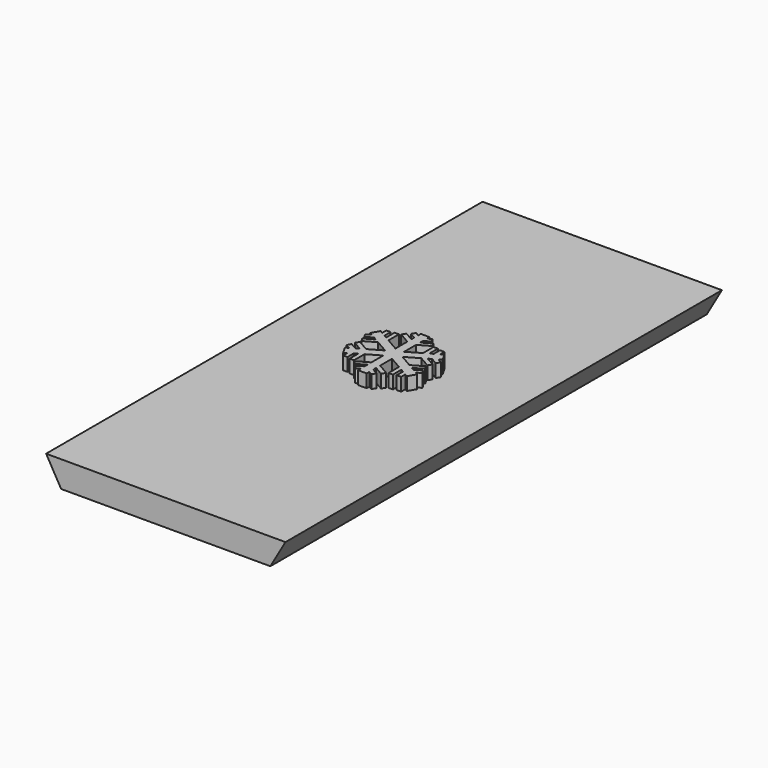
from build123d import *

# Parameters (mm, degrees)
F1_DEPTH  = 125
F2_R      = 1.85
F3_DEPTH  = 4
F5_DEPTH  = 3
F7_R      = 6
F8_DEPTH  = 25
F10_R     = 6
F11_DEPTH = 25


with BuildPart() as f1:
    # F0 (on Front) → F1 (new body)
    with BuildSketch(Plane.XZ):
        Polygon((27.4241377865, 47.5), (-27.4241377865, 47.5), (-23.9600361714, 41.5), (23.9600361714, 41.5), align=None)
    extrude(amount=F1_DEPTH)

    # F2 (on face) → F3 (cut)
    with BuildSketch(Plane(origin=(0, 0, 41.5), x_dir=(1, 0, 0), z_dir=(0, 0, -1))):
        with BuildLine():
            ThreePointArc((-13.8300180857, 120), (-11.9800180857, 118.15), (-10.1300180857, 120))
            Line((-10.1300180857, 120), (-13.8300180857, 120))
        make_face()
        with BuildLine():
            Line((-13.8300180857, 120), (-10.1300180857, 120))
            ThreePointArc((-10.1300180857, 120), (-11.9800180857, 121.85), (-13.8300180857, 120))
        make_face()
        with Locations((11.9800180857, 120)):
            Circle(F2_R)
        with BuildLine():
            ThreePointArc((-13.8300180857, 23), (-11.9800180857, 21.15), (-10.1300180857, 23))
            Line((-10.1300180857, 23), (-13.8300180857, 23))
        make_face()
        with BuildLine():
            Line((-13.8300180857, 23), (-10.1300180857, 23))
            ThreePointArc((-10.1300180857, 23), (-11.9800180857, 24.85), (-13.8300180857, 23))
        make_face()
        with Locations((11.9800180857, 23)):
            Circle(F2_R)
    extrude(amount=-F3_DEPTH, mode=Mode.SUBTRACT)

    # F4 (on face) → F5 (join)
    with BuildSketch(Plane.XY.offset(47.5)):
        Polygon((0.5340071506, -61.535328541), (-0.4659928494, -62.1126788102), (-0.4659928494, -65.5259274643), (-0.4659928494, -66.6806280026), (-0.4659928494, -67.4806280026), (-0.4659928494, -68.635328541), (-0.4659928494, -69.3806280026), (1.5340071506, -69.3806280026), (1.5340071506, -68.635328541), (1.5340071506, -67.4806280026), (1.5340071506, -66.6806280026), (1.5340071506, -65.5259274643), (1.5340071506, -62.1126788102), align=None)
        Polygon((2.900031855, -68.2693027335), (1.5340071506, -67.4806280026), (1.5340071506, -68.635328541), (2.4000325544, -69.135328541), align=None)
        Polygon((4.132083362, -67.0259274643), (1.5340071506, -65.5259274643), (1.5340071506, -66.6806280026), (3.6320840614, -67.8919532719), align=None)
        Polygon((-0.4659928494, -68.635328541), (-0.4659928494, -67.4806280026), (-1.8520648707, -68.2808770573), (-1.3320182531, -69.135328541), align=None)
        Polygon((-0.4659928494, -66.6806280026), (-0.4659928494, -65.5259274643), (-3.0640690607, -67.0259274643), (-2.5440224431, -67.880378948), align=None)
        Polygon((-3.4219535926, -66.819303541), (-3.4219535926, -63.819303541), (-4.4219535926, -64.3966538102), (-4.4219535926, -66.819303541), align=None)
        Polygon((-5.1147739156, -66.5781745553), (-5.1147739156, -64.7966538102), (-6.1147739156, -65.3740040794), (-6.1147739156, -66.5781745553), align=None)
        Polygon((-7.1147739156, -63.6419532718), (-6.1147739156, -63.0646030026), (-7.6576161382, -62.1738426302), (-8.1576161382, -63.039868034), align=None)
        Polygon((-5.4219535926, -62.6646030026), (-4.4219535926, -62.0872527334), (-7.0200298039, -60.5872527335), (-7.5200298039, -61.4532781373), align=None)
        Polygon((-4.4219535925, -58.6740032718), (-5.4219535925, -58.0966530026), (-7.5200298039, -59.307977868), (-7.0200298039, -60.1740032718), align=None)
        Polygon((-8.1576161382, -57.7213879713), (-7.6576161382, -58.5874133751), (-6.1147739156, -57.6966530026), (-7.1147739156, -57.1193027334), align=None)
        Polygon((-6.1147739156, -54.18308145), (-6.1147739156, -55.3872519259), (-5.1147739156, -55.964602195), (-5.1147739156, -54.18308145), align=None)
        Polygon((-4.4219535926, -53.9419524643), (-4.4219535926, -56.3646021951), (-3.4219535925, -56.9419524642), (-3.4219535926, -53.9419524643), align=None)
        Polygon((-3.0640690607, -53.735328541), (-0.4659928494, -55.235328541), (-0.4659928494, -54.0806280026), (-2.5440224431, -52.8808770573), align=None)
        Polygon((-1.8520648707, -52.480378948), (-0.4659928494, -53.2806280026), (-0.4659928494, -52.1259274643), (-1.3320182531, -51.6259274643), align=None)
        Polygon((1.5340071506, -52.1259274643), (1.5340071506, -53.2806280026), (2.900031855, -52.4919532718), (2.4000325544, -51.6259274643), align=None)
        Polygon((1.5340071506, -54.0806280026), (1.5340071506, -55.235328541), (4.132083362, -53.735328541), (3.6320840614, -52.8693027334), align=None)
        Polygon((4.4899678938, -53.9419524643), (4.4899678938, -56.9419524643), (5.4899678938, -56.3646021951), (5.4899678938, -53.9419524643), align=None)
        Polygon((6.1827882169, -54.18308145), (6.1827882169, -55.9646021951), (7.1827882169, -55.3872519259), (7.1827882169, -54.18308145), align=None)
        Polygon((8.1827882169, -57.1193027334), (7.1827882169, -57.6966530026), (8.7256304395, -58.5874133751), (9.2256304395, -57.7213879713), align=None)
        Polygon((6.4899678939, -58.0966530026), (5.4899678939, -58.6740032718), (8.0880441052, -60.1740032718), (8.5880441052, -59.307977868), align=None)
        Polygon((8.0880441052, -60.5872527335), (5.4899678939, -62.0872527335), (6.4899678939, -62.6646030027), (8.5880441052, -61.4532781373), align=None)
        Polygon((8.7256304395, -62.1738426302), (7.1827882169, -63.0646030027), (8.1827882169, -63.6419532719), (9.2256304395, -63.039868034), align=None)
        Polygon((7.1827882169, -65.3740040794), (6.1827882169, -64.7966538102), (6.1827882169, -66.5781745553), (7.1827882169, -66.5781745553), align=None)
        Polygon((2.5340071506, -60.3806280026), (1.5340071506, -60.9579782718), (1.5340071506, -62.1126788102), (4.4899678938, -63.819303541), (5.4899678938, -64.3966538102), (6.1827882169, -64.7966538102), (7.1827882169, -65.3740040794), (7.8282364841, -65.7466538103), (8.8282350853, -64.0146021951), (8.1827882169, -63.6419532719), (7.1827882169, -63.0646030027), (6.4899678939, -62.6646030027), (5.4899678939, -62.0872527335), align=None)
        Polygon((-0.4659928494, -60.9579782718), (-1.4659928493, -60.3806280026), (-4.4219535926, -62.0872527334), (-5.4219535926, -62.6646030026), (-6.1147739156, -63.0646030026), (-7.1147739156, -63.6419532718), (-7.7602214834, -64.0146025988), (-6.7602214834, -65.7466534064), (-6.1147739156, -65.3740040794), (-5.1147739156, -64.7966538102), (-4.4219535926, -64.3966538102), (-3.4219535926, -63.819303541), (-0.4659928494, -62.1126788102), align=None)
        Polygon((-7.1147739156, -57.1193027334), (-6.1147739156, -57.6966530026), (-5.4219535925, -58.0966530026), (-4.4219535925, -58.6740032718), (-1.4659928493, -60.3806280026), (-0.4659928494, -59.8032777334), (-0.4659928494, -58.648577195), (-3.4219535925, -56.9419524642), (-4.4219535925, -56.364602195), (-5.1147739156, -55.964602195), (-6.1147739156, -55.3872519258), (-6.7602221828, -55.014602195), (-7.760220784, -56.7466538101), align=None)
        Polygon((1.5340071506, -58.648577195), (1.5340071506, -59.8032777334), (2.5340071506, -60.3806280026), (5.4899678939, -58.6740032718), (6.4899678939, -58.0966530026), (7.1827882169, -57.6966530026), (8.1827882169, -57.1193027334), (8.8282357847, -56.7466534064), (7.8282357847, -55.0146025988), (7.1827882169, -55.3872519259), (6.1827882169, -55.9646021951), (5.4899678938, -56.3646021951), (4.4899678938, -56.9419524643), align=None)
        Polygon((-0.4659928494, -55.235328541), (-0.4659928494, -58.648577195), (0.5340071506, -59.2259274642), (1.5340071506, -58.648577195), (1.5340071506, -55.235328541), (1.5340071506, -54.0806280026), (1.5340071506, -53.2806280026), (1.5340071506, -52.1259274643), (1.5340071506, -51.3806280026), (-0.4659928494, -51.3806280026), (-0.4659928494, -52.1259274643), (-0.4659928494, -53.2806280026), (-0.4659928494, -54.0806280026), align=None)
        Polygon((5.4899678938, -64.3966538102), (4.4899678938, -63.819303541), (4.4899678938, -66.819303541), (5.4899678938, -66.819303541), align=None)
        Polygon((0.5340071506, -61.535328541), (-0.4659928494, -60.9579782718), (-0.4659928494, -62.1126788102), align=None)
        Polygon((1.5340071506, -60.9579782718), (0.5340071506, -61.535328541), (1.5340071506, -62.1126788102), align=None)
        Polygon((2.5340071506, -60.3806280026), (1.5340071506, -59.8032777334), (1.5340071506, -60.9579782718), align=None)
        Polygon((1.5340071506, -58.648577195), (0.5340071506, -59.2259274642), (1.5340071506, -59.8032777334), align=None)
        Polygon((0.5340071506, -59.2259274642), (-0.4659928494, -59.8032777334), (-0.4659928494, -60.9579782718), (0.5340071506, -61.535328541), (1.5340071506, -60.9579782718), (1.5340071506, -59.8032777334), align=None)
        Polygon((-0.4659928494, -59.8032777334), (-1.4659928493, -60.3806280026), (-0.4659928494, -60.9579782718), align=None)
        Polygon((-0.4659928494, -58.648577195), (-0.4659928494, -59.8032777334), (0.5340071506, -59.2259274642), align=None)
    extrude(amount=F5_DEPTH)

    # F7 (on face) → F8 (cut)
    with BuildSketch(Plane(origin=(-23.9600361714, 0, 41.5), x_dir=(0.8660254038, 0, 0.5), z_dir=(0.5, 0, -0.8660254038))):
        with Locations((0, 62.5)):
            Circle(F7_R)
    extrude(amount=F8_DEPTH, mode=Mode.SUBTRACT)

    # F10 (on face) → F11 (cut)
    with BuildSketch(Plane(origin=(23.9600361714, 0, 41.5), x_dir=(0.8660254038, 0, -0.5), z_dir=(0.5, 0, 0.8660254038))):
        with Locations((0, -62.5)):
            Circle(F10_R)
    extrude(amount=-F11_DEPTH, mode=Mode.SUBTRACT)


solid = f1.part
